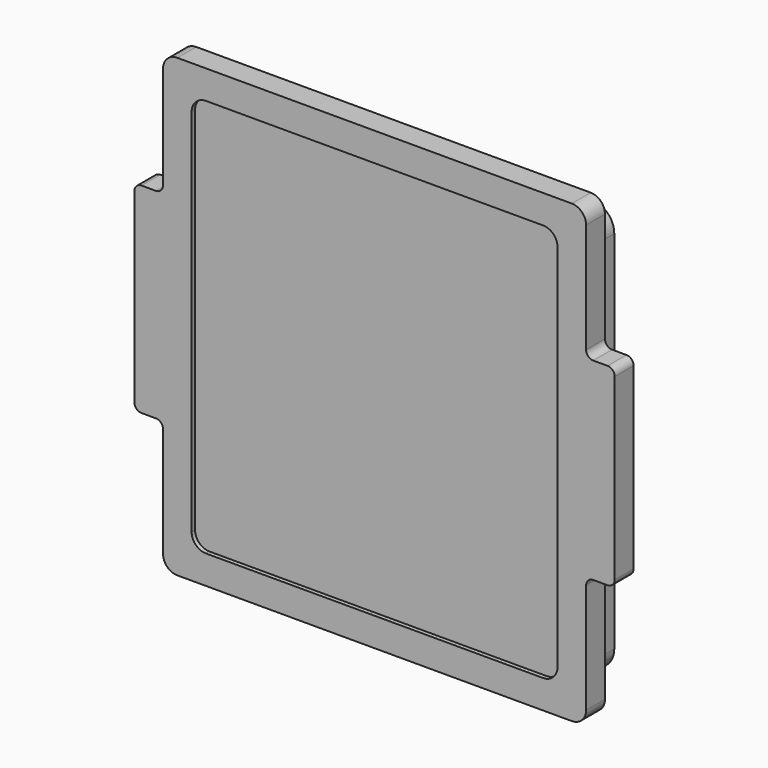
from build123d import *

# Parameters (mm, degrees)
F1_DEPTH = 1.6764
F3_DEPTH = 0.3048
F5_DEPTH = 1.778


with BuildPart() as f1:
    # F0 (on Front) → F1 (new body)
    with BuildSketch(Plane.XZ):
        with BuildLine():
            Line((29.0322, 0), (1.016, 0))
            ThreePointArc((1.016, 0), (0.29758, -0.29758), (0, -1.016))
            Line((0, -1.016), (0, -8.3058))
            ThreePointArc((0, -8.3058), (-0.14879, -8.66501), (-0.508, -8.8138))
            Line((-0.508, -8.8138), (-1.524, -8.8138))
            ThreePointArc((-1.524, -8.8138), (-1.88321, -8.96259), (-2.032, -9.3218))
            Line((-2.032, -9.3218), (-2.032, -22.5298))
            ThreePointArc((-2.032, -22.5298), (-1.88321, -22.88901), (-1.524, -23.0378))
            Line((-1.524, -23.0378), (-0.508, -23.0378))
            ThreePointArc((-0.508, -23.0378), (-0.14879, -23.18659), (0, -23.5458))
            Line((0, -23.5458), (0, -31.3436))
            ThreePointArc((0, -31.3436), (0.29758, -32.06202), (1.016, -32.3596))
            Line((1.016, -32.3596), (29.0322, -32.3596))
            ThreePointArc((29.0322, -32.3596), (29.75062, -32.06202), (30.0482, -31.3436))
            Line((30.0482, -31.3436), (30.0482, -23.5458))
            ThreePointArc((30.0482, -23.5458), (30.19699, -23.18659), (30.5562, -23.0378))
            Line((30.5562, -23.0378), (31.5722, -23.0378))
            ThreePointArc((31.5722, -23.0378), (31.93141, -22.88901), (32.0802, -22.5298))
            Line((32.0802, -22.5298), (32.0802, -9.8298))
            ThreePointArc((32.0802, -9.8298), (31.93141, -9.47059), (31.5722, -9.3218))
            Line((31.5722, -9.3218), (30.5562, -9.3218))
            ThreePointArc((30.5562, -9.3218), (30.19699, -9.17301), (30.0482, -8.8138))
            Line((30.0482, -8.8138), (30.0482, -1.016))
            ThreePointArc((30.0482, -1.016), (29.75062, -0.29758), (29.0322, 0))
        make_face()
    extrude(amount=F1_DEPTH)

    # F2 (on face) → F3 (cut)
    with BuildSketch(Plane.XZ.offset(1.6764)):
        with BuildLine():
            Line((27.0002, -2.032), (3.048, -2.032))
            ThreePointArc((3.048, -2.032), (2.32958, -2.32958), (2.032, -3.048))
            Line((2.032, -3.048), (2.032, -29.3116))
            ThreePointArc((2.032, -29.3116), (2.32958, -30.03002), (3.048, -30.3276))
            Line((3.048, -30.3276), (27.0002, -30.3276))
            ThreePointArc((27.0002, -30.3276), (27.71862, -30.03002), (28.0162, -29.3116))
            Line((28.0162, -29.3116), (28.0162, -3.048))
            ThreePointArc((28.0162, -3.048), (27.71862, -2.32958), (27.0002, -2.032))
        make_face()
    extrude(amount=-F3_DEPTH, mode=Mode.SUBTRACT)

    # F4 (on face) → F5 (join)
    with BuildSketch(Plane(origin=(0, 0, 0), x_dir=(-1, 0, 0), z_dir=(0, 1, 0))):
        with BuildLine():
            Line((-2.3495, -1.6129), (-27.6987, -1.6129))
            ThreePointArc((-27.6987, -1.6129), (-28.821232, -2.077868), (-29.2862, -3.2004))
            Line((-29.2862, -3.2004), (-29.2862, -29.1592))
            ThreePointArc((-29.2862, -29.1592), (-28.821232, -30.281732), (-27.6987, -30.7467))
            Line((-27.6987, -30.7467), (-2.3495, -30.7467))
            ThreePointArc((-2.3495, -30.7467), (-1.226968, -30.281732), (-0.762, -29.1592))
            Line((-0.762, -29.1592), (-0.762, -3.2004))
            ThreePointArc((-0.762, -3.2004), (-1.226968, -2.077868), (-2.3495, -1.6129))
        make_face()
    extrude(amount=F5_DEPTH)


solid = f1.part
